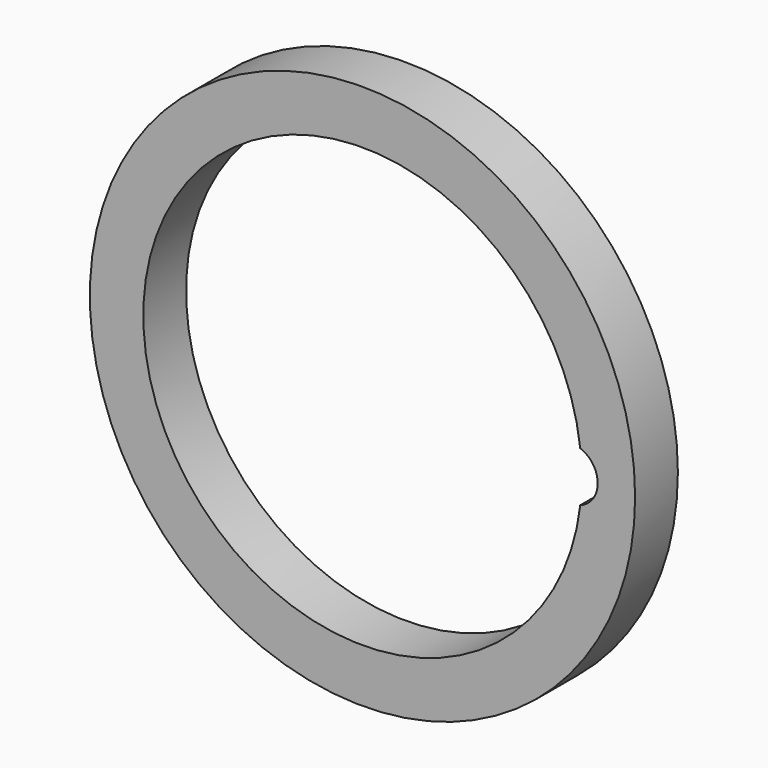
from build123d import *

# Parameters (mm, degrees)
CYLINDER016_R     = 0.5
CYLINDER016_DEPTH = 1
CYLINDER015_R     = 4.1
CYLINDER015_DEPTH = 1
CYLINDER014_R     = 5.1
CYLINDER014_DEPTH = 1


with BuildPart() as cylinder016:
    # Cylinder016 → Cylinder016 (new body)
    with BuildSketch(Plane(origin=(12.9, -12.5, -10), x_dir=(1, 0, 0), z_dir=(0, -1, 0))):
        Circle(CYLINDER016_R)
    extrude(amount=CYLINDER016_DEPTH)


with BuildPart() as cylinder015:
    # Cylinder015 → Cylinder015 (new body)
    with BuildSketch(Plane(origin=(9, -12.5, -10), x_dir=(1, 0, 0), z_dir=(0, -1, 0))):
        Circle(CYLINDER015_R)
    extrude(amount=CYLINDER015_DEPTH)


with BuildPart() as side_hole_deco:
    # Cylinder014 → Cylinder014 (new body)
    with BuildSketch(Plane(origin=(9, -12.5, -10), x_dir=(1, 0, 0), z_dir=(0, -1, 0))):
        Circle(CYLINDER014_R)
    extrude(amount=CYLINDER014_DEPTH)

    # Cut: cut Cylinder015
    add(cylinder015.part, mode=Mode.SUBTRACT)

    # Cut007: cut Cylinder016
    add(cylinder016.part, mode=Mode.SUBTRACT)


solid = side_hole_deco.part
